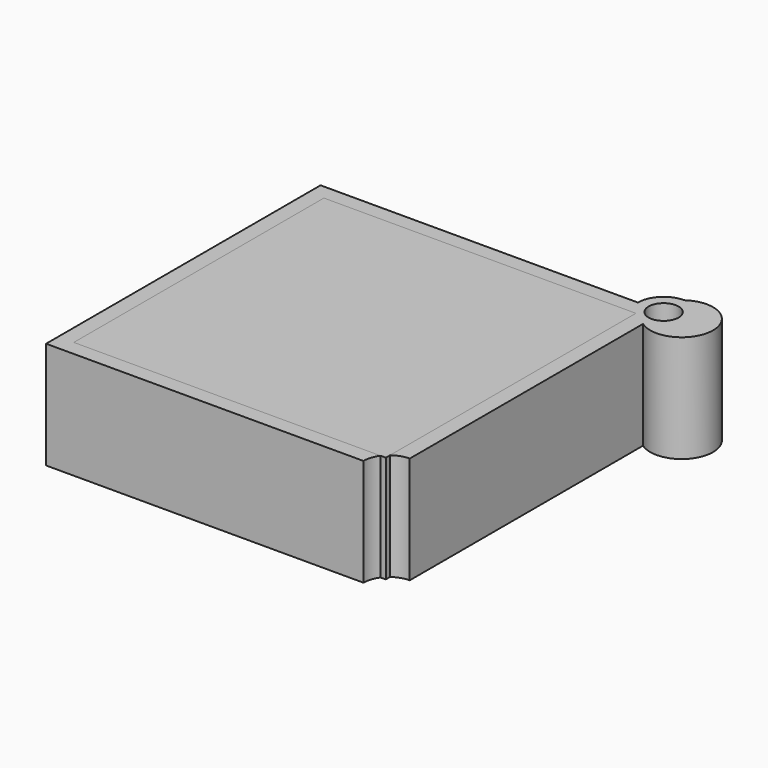
from build123d import *

# Parameters (mm, degrees)
F0_W     = 72.7547705173
F0_H     = 72.898581624
F2_DEPTH = 25
F1_R     = 3.5


with BuildPart() as f2:
    # F0 (on Top) → F2 (new body)
    with BuildSketch(Plane.XY):
        Rectangle(F0_W, F0_H)
    extrude(amount=F2_DEPTH)


with BuildPart() as f2b:
    # F1 (on face) → F2, piece 2 (new body)
    with BuildSketch(Plane.XY):
        with BuildLine():
            Line((-40, -40), (34, -40))
            ThreePointArc((34, -40), (34.2982698217, -38.1317727723), (35.1634243248, -36.449290812))
            Line((35.1634243248, -36.449290812), (-36.3773852587, -36.449290812))
            Line((-36.3773852587, -36.449290812), (-36.3773852587, 36.449290812))
            Line((-36.3773852587, 36.449290812), (36.3773852587, 36.449290812))
            Line((36.3773852587, 36.449290812), (36.3773852587, -35.2170445919))
            ThreePointArc((36.3773852587, -35.2170445919), (38.0892059829, -34.3123936296), (40, -34))
            Line((40, -34), (40, 34))
            ThreePointArc((40, 34), (51.5527089924, 39.959987811), (40.0415608589, 45.9998560562))
            ThreePointArc((40.0415608589, 45.9998560562), (35.7720788296, 44.2573093119), (34, 40))
            Line((34, 40), (-40, 40))
            Line((-40, 40), (-40, -40))
        make_face()
        with Locations((40, 40)):
            Circle(F1_R, mode=Mode.SUBTRACT)
    extrude(amount=F2_DEPTH)


solid = Compound([f2.part, f2b.part])
